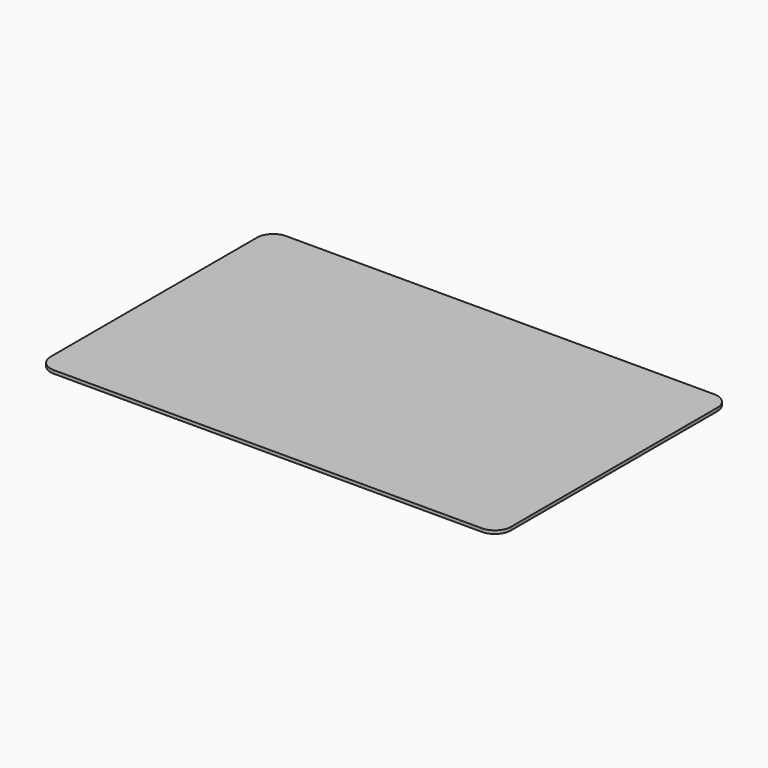
from build123d import *

# Parameters (mm, degrees)
PAD_DEPTH = 0.6
BOX_W     = 2
BOX_H     = 1.5
BOX_DEPTH = 0.49


with BuildPart() as board:
    # Sketch → Pad (new body)
    with BuildSketch(Plane.XY):
        with BuildLine():
            Line((2.936035, 53.171589), (82.536035, 53.171589))
            ThreePointArc((85.536035, 50.171589), (84.657355, 52.292909), (82.536035, 53.171589))
            Line((85.536035, 50.171589), (85.536035, 2.191589))
            ThreePointArc((82.536035, -0.808411), (84.657355, 0.070269), (85.536035, 2.191589))
            Line((82.536035, -0.808411), (2.936035, -0.808411))
            ThreePointArc((-0.063965, 2.191589), (0.814715, 0.070269), (2.936035, -0.808411))
            Line((-0.063965, 2.191589), (-0.063965, 50.171589))
            ThreePointArc((2.936035, 53.171589), (0.814715, 52.292909), (-0.063965, 50.171589))
        make_face()
    extrude(amount=PAD_DEPTH)


with BuildPart() as cube:
    # Box → Box (new body)
    with BuildSketch(Plane(origin=(41.3, 40.74, -0.5), x_dir=(1, 0, 0), z_dir=(0, 0, 1))):
        with Locations((1, 0.75)):
            Rectangle(BOX_W, BOX_H)
    extrude(amount=BOX_DEPTH)


solid = Compound([board.part, cube.part])
